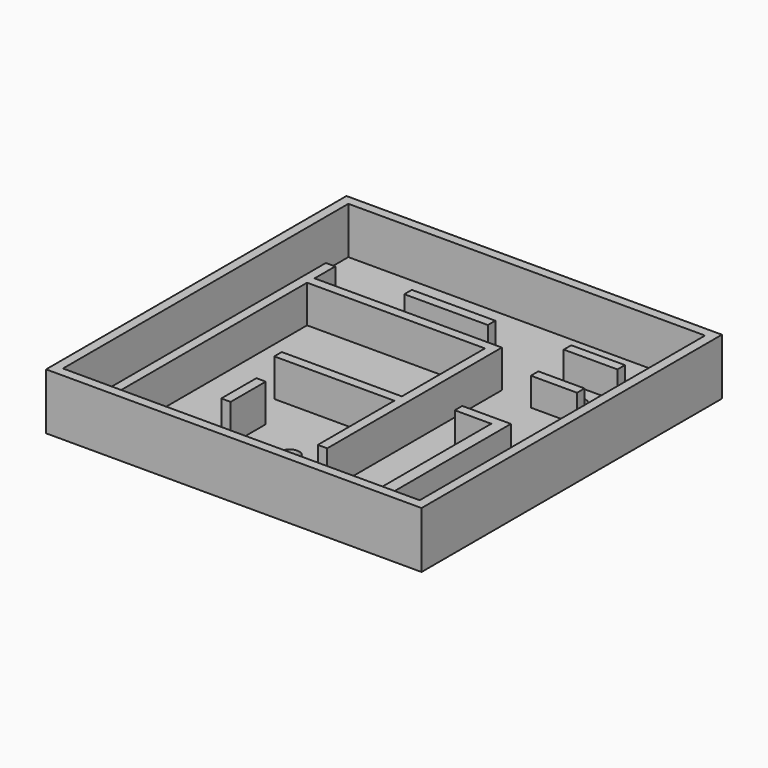
from build123d import *

# Parameters (mm, degrees)
F0_W      = 50.8
F0_H      = 50.8
F1_DEPTH  = 7.62
F2_T      = -1.27
F3_W      = 16.2406819105
F3_H      = 1.27
F3_W_2    = 1.27
F3_H_2    = 5.9315557909
F3_W_3    = 24.0681569266
F3_W_4    = 1.640137285
F3_H_3    = 20.2985386211
F4_DEPTH  = 5.08
F5_W      = 7.2644
F5_H      = 1.27
F5_W_2    = 6.2484
F6_DEPTH  = 5.08
F7_R      = 1.27
F8_DEPTH  = 203.2
F9_W      = 11.2909469754
F9_H      = 1.27
F10_DEPTH = 5.08
F11_R     = 1.27
F12_DEPTH = 203.2


with BuildPart() as f1:
    # F0 (on Top) → F1 (new body)
    with BuildSketch(Plane.XY):
        with Locations((25.4, 25.4)):
            Rectangle(F0_W, F0_H)
    extrude(amount=F1_DEPTH)

    # F2
    f2_openings = [f1.faces().sort_by_distance(p)[0] for p in [
        (25.4, 25.4, 7.62),
    ]]
    offset(amount=F2_T, openings=f2_openings)

    # F3 (on face) → F4 (join)
    with BuildSketch(Plane.XY.offset(1.27)):
        Polygon((6.35, 39.3808744848), (6.35, 1.27), (7.62, 1.27), (7.62, 34.6140562403), (7.62, 35.8840562403), (7.62, 39.3808744848), align=None)
        with Locations((23.5678159714, 19.9215934223)):
            Rectangle(F3_W, F3_H)
        with Locations((17.7206453478, 11.2408155268)):
            Rectangle(F3_W_2, F3_H_2)
        Polygon((31.6881569266, 35.8840562403), (31.6881569266, 34.6140562403), (31.6881569266, 20.5565934223), (31.6881569266, 19.2865934223), (31.6881569266, 6.35), (32.9581569266, 6.35), (32.9581569266, 35.8840562403), align=None)
        with Locations((19.6540784633, 35.2490562403)):
            Rectangle(F3_W_3, F3_H)
        Polygon((38.0381569266, 21.5685386211), (42.9784730077, 21.5685386211), (44.6186102927, 21.5685386211), (44.6186102927, 22.8385386211), (38.0381569266, 22.8385386211), align=None)
        with Locations((43.7985416502, 11.4192693105)):
            Rectangle(F3_W_4, F3_H_3)
    extrude(amount=F4_DEPTH)

    # F5 (on Top) → F6 (join)
    with BuildSketch(Plane.XY):
        with Locations((40.4664789763, 42.1414506233)):
            Rectangle(F5_W, F5_H)
        with Locations((40.9744789763, 35.3089962697)):
            Rectangle(F5_W_2, F5_H)
    extrude(amount=F6_DEPTH)

    # F7 (on Top) → F8 (cut)
    with BuildSketch(Plane.XY):
        with Locations((3.81, 3.8211722858)):
            Circle(F7_R)
        with Locations((3.81, 8.3355149254)):
            Circle(F7_R)
        with Locations((3.81, 12.6183535904)):
            Circle(F7_R)
        with Locations((40.9753248096, 38.4839962697)):
            Circle(F7_R)
        with Locations((22.5706957281, 26.6243927181)):
            Circle(F7_R)
    extrude(amount=F8_DEPTH, mode=Mode.SUBTRACT)

    # F9 (on Top) → F10 (join)
    with BuildSketch(Plane.XY):
        with Locations((21.4138692245, 41.5160228109)):
            Rectangle(F9_W, F9_H)
    extrude(amount=F10_DEPTH)

    # F11 (on Top) → F12 (cut)
    with BuildSketch(Plane.XY):
        with Locations((24.7232858092, 10.317591019)):
            Circle(F11_R)
    extrude(amount=F12_DEPTH, mode=Mode.SUBTRACT)


solid = f1.part
